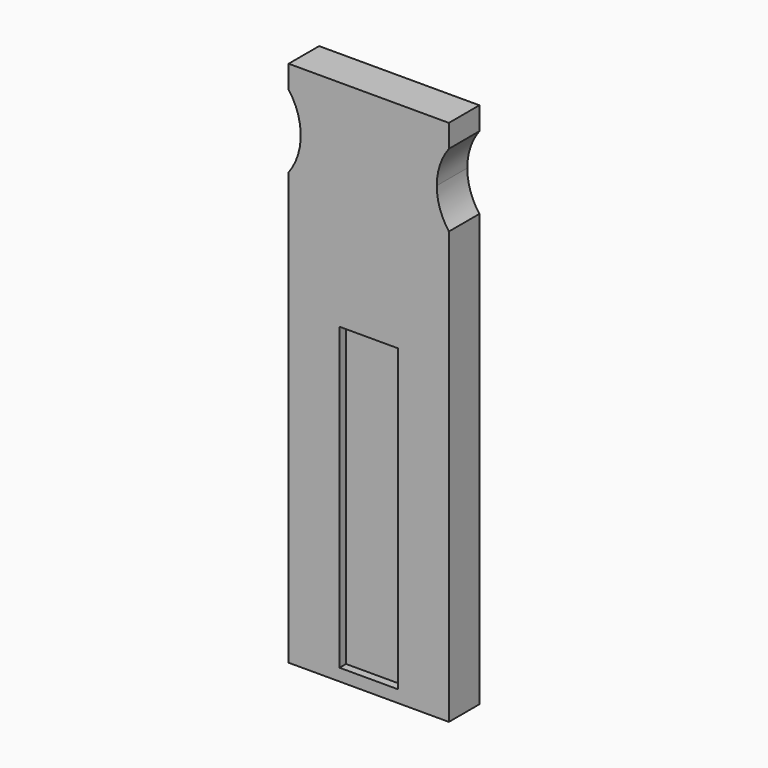
from build123d import *

# Parameters (mm, degrees)
F0_W     = 19.75
F0_H     = 65
F0_W_2   = 7.2
F0_H_2   = 37
F1_DEPTH = 4.7
F2_DEPTH = 3.7
F4_DEPTH = 4.701


with BuildPart() as f1:
    # F0 (on Front) → F1 (new body)
    with BuildSketch(Plane.XZ):
        with Locations((9.875, 32.5)):
            Rectangle(F0_W, F0_H)
        with Locations((9.875, 20)):
            Rectangle(F0_W_2, F0_H_2, mode=Mode.SUBTRACT)
    extrude(amount=F1_DEPTH)

    # F0 (on Front) → F2 (join)
    with BuildSketch(Plane.XZ):
        with Locations((9.875, 20)):
            Rectangle(F0_W_2, F0_H_2)
    extrude(amount=F2_DEPTH)

    # F3 (on face) → F4 (cut, through all)
    with BuildSketch(Plane(origin=(0, 0, 0), x_dir=(-1, 0, 0), z_dir=(0, 1, 0))):
        with BuildLine():
            ThreePointArc((-19.75, 53.2128467794), (-18.6419559311, 55.3359042131), (-18.2596136294, 57.7))
            ThreePointArc((-18.2596136294, 57.7), (-18.6419559311, 60.0640957869), (-19.75, 62.1871532206))
            Line((-19.75, 62.1871532206), (-19.75, 53.2128467794))
        make_face()
        with BuildLine():
            Line((0, 53.2128467794), (0, 62.1871532206))
            ThreePointArc((0, 62.1871532206), (-1.4903863706, 57.7), (0, 53.2128467794))
        make_face()
    extrude(amount=-F4_DEPTH, mode=Mode.SUBTRACT)


solid = f1.part
